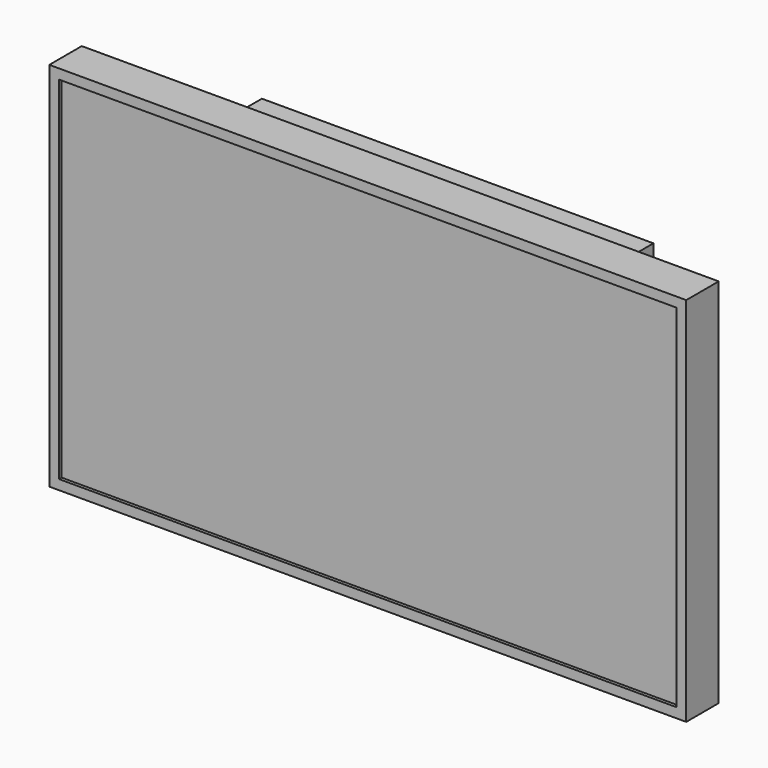
from build123d import *

# Parameters (mm, degrees)
F0_W     = 976
F0_H     = 569
F1_DEPTH = 62.2
F2_W     = 946
F2_H     = 539
F3_DEPTH = 5
F4_W     = 600
F4_H     = 460
F5_DEPTH = 110


with BuildPart() as f1:
    # F0 (on Front) → F1 (new body)
    with BuildSketch(Plane.XZ):
        Rectangle(F0_W, F0_H)
    extrude(amount=F1_DEPTH)

    # F2 (on face) → F3 (cut)
    with BuildSketch(Plane.XZ.offset(62.2)):
        Rectangle(F2_W, F2_H)
    extrude(amount=-F3_DEPTH, mode=Mode.SUBTRACT)


with BuildPart() as f5:
    # F4 (on face) → F5 (new body)
    with BuildSketch(Plane(origin=(0, 0, 0), x_dir=(-1, 0, 0), z_dir=(0, 1, 0))):
        Rectangle(F4_W, F4_H)
    extrude(amount=F5_DEPTH)


solid = Compound([f1.part, f5.part])
